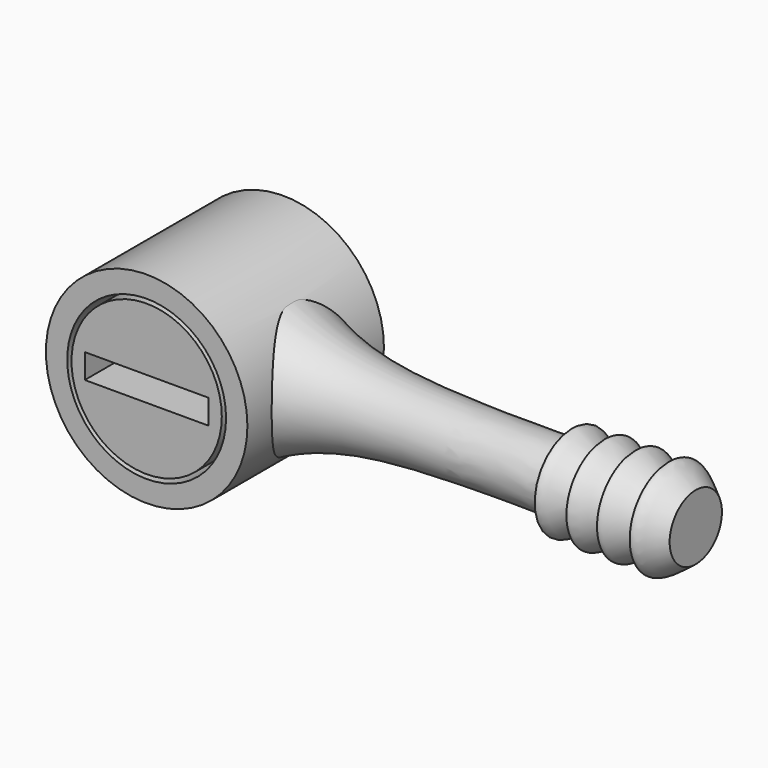
from build123d import *

# Parameters (mm, degrees)
F0_R     = 22.3741739944
F1_DEPTH = 25.4
F2_W     = 36.8254184723
F2_H     = 7.3195882142
F3_DEPTH = 25.4
F4_R     = 29.9941739944
F4_R_2   = 23.6441739944
F5_DEPTH = 50.8


with BuildPart() as f1:
    # F0 (on Front) → F1 (new body)
    with BuildSketch(Plane.XZ):
        Circle(F0_R)
    extrude(amount=F1_DEPTH)

    # F2 (on face) → F3 (cut)
    with BuildSketch(Plane.XZ.offset(25.4)):
        Rectangle(F2_W, F2_H)
    extrude(amount=-F3_DEPTH, mode=Mode.SUBTRACT)


with BuildPart() as f5:
    # F4 (on face) → F5 (new body)
    with BuildSketch(Plane.XZ.offset(25.4)):
        Circle(F4_R)
        Circle(F4_R_2, mode=Mode.SUBTRACT)
    extrude(amount=-F5_DEPTH)

    # F7 (on Front) → F8 (revolve)
    with BuildSketch(Plane.XZ):
        with BuildLine():
            add(Edge.make_bspline(
                [(22.86, 19.5883467793), (29.6383327967, 16.1187444774), (47.7786674947, 9.6191313689), (79.5260908678, 9.5316008353), (106.0367358965, 9.7302468648)],
                knots=[0, 0, 0, 0, 0.3870668202, 1, 1, 1, 1], degree=3))
            Line((22.86, 19.5883467793), (26.6180112958, 0))
            Line((26.6180112958, 0), (143.1488830461, 0))
            Line((143.1488830461, 0), (143.1488830461, 9.7302468648))
            add(Edge.make_bspline(
                [(143.1488830461, 9.7302468648), (139.3932667203, 12.6733164939), (133.131106526, 17.8378924701), (136.4200203151, 5.3324641064), (122.6652486332, 18.9767272188), (126.8595193223, 5.0771692466), (113.7792640416, 18.8884579886), (117.3650753419, 5.3155099364), (105.239316318, 17.4447327969), (105.8162434435, 11.8473684846), (106.0367358965, 9.7302468648)],
                knots=[0, 0, 0, 0, 0.1468326505, 0.2495965533, 0.4006313668, 0.5033952997, 0.6502280537, 0.7534512997, 0.8995205502, 1, 1, 1, 1], degree=3))
        make_face()
    revolve(axis=Axis((84.8834471709, 0, 0), (1, 0, 0)))


solid = Compound([f1.part, f5.part])
